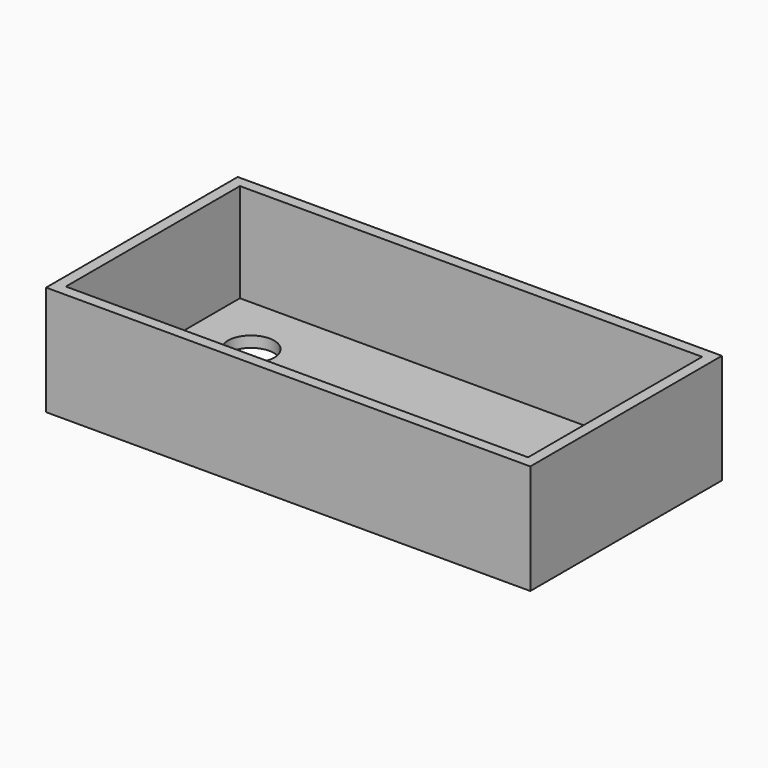
from build123d import *

# Parameters (mm, degrees)
F0_W     = 110.33576
F0_H     = 54.586928
F1_DEPTH = 25
F2_T     = -2.5
F3_R     = 5.270702
F4_DEPTH = 25.001


with BuildPart() as f1:
    # F0 (on Top) → F1 (new body)
    with BuildSketch(Plane.XY):
        Rectangle(F0_W, F0_H)
    extrude(amount=F1_DEPTH)

    # F2
    f2_openings = [f1.faces().sort_by_distance(p)[0] for p in [
        (0, 0, 25),
    ]]
    offset(amount=F2_T, openings=f2_openings)

    # F3 (on Top) → F4 (cut, through all)
    with BuildSketch(Plane.XY):
        with Locations((-38.874775, 10.714518)):
            Circle(F3_R)
    extrude(amount=F4_DEPTH, mode=Mode.SUBTRACT)


solid = f1.part
